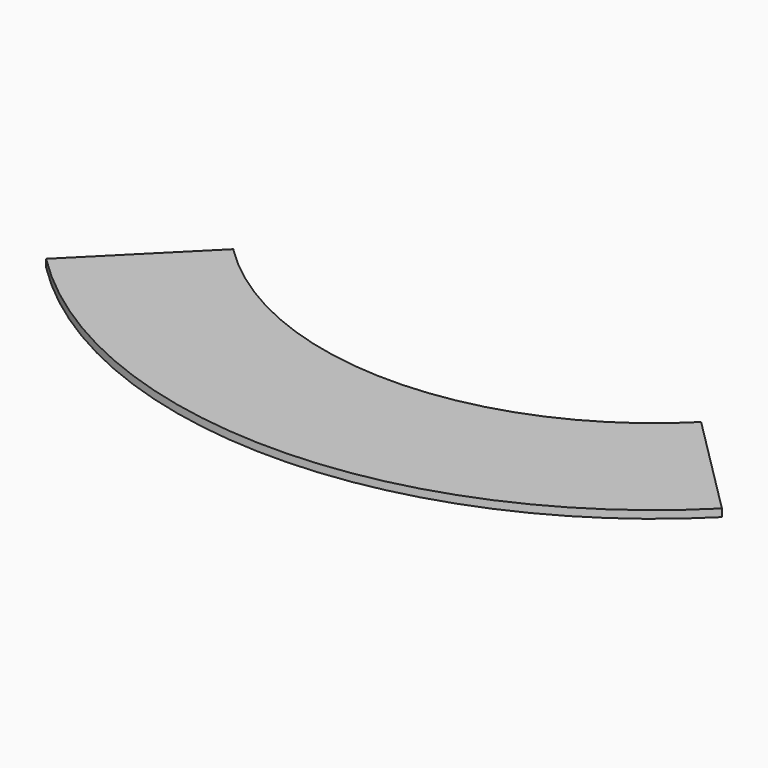
from build123d import *

# Parameters (mm, degrees)
F1_DEPTH = 31.75
F3_DEPTH = 6.35


with BuildPart() as f1:
    # F0 (on Top) → F1 (new body)
    with BuildSketch(Plane.XY):
        with BuildLine():
            ThreePointArc((969.867661, -969.867661), (0, -1371.6), (-969.867661, -969.867661))
            Line((-969.867661, -969.867661), (-1400.919955, -1400.919955))
            ThreePointArc((-1400.919955, -1400.919955), (0, -1981.2), (1400.919955, -1400.919955))
            Line((1400.919955, -1400.919955), (969.867661, -969.867661))
        make_face()
    extrude(amount=-F1_DEPTH)


with BuildPart() as f3:
    # F2 (on face) → F3 (new body)
    with BuildSketch(Plane(origin=(0, 0, -31.75), x_dir=(1, 0, 0), z_dir=(0, 0, -1))):
        Polygon((-1387.449571, 1405.410083), (-965.377533, 983.338045), (-893.535484, 1055.180094), (-1315.607522, 1477.252132), align=None)
    extrude(amount=F3_DEPTH)


solid = Compound([f1.part, f3.part])
